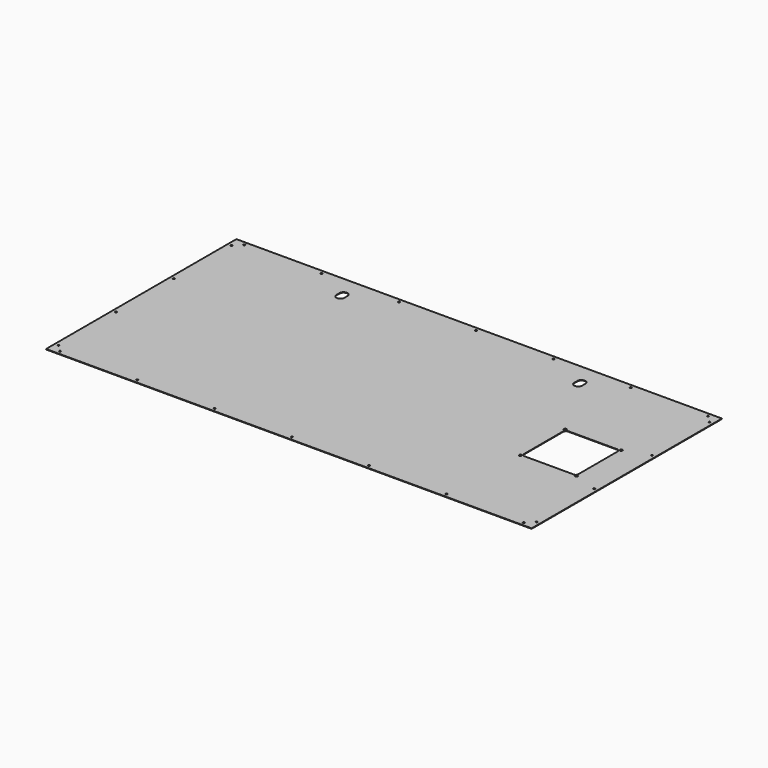
from build123d import *

# Parameters (mm, degrees)
SKETCH_W        = 980
SKETCH_H        = 480
PAD_DEPTH       = 1
SKETCH001_R     = 1.8
POCKET_DEPTH    = 1.001
SKETCH030_R     = 2.6
POCKET018_DEPTH = 1.001
POCKET019_DEPTH = 1.001
POCKET022_DEPTH = 1.001


with BuildPart() as part:
    # Sketch → Pad (new body)
    with BuildSketch(Plane.XY):
        Rectangle(SKETCH_W, SKETCH_H)
    extrude(amount=PAD_DEPTH)

    # Sketch001 (on Face6 of Pad) → Pocket (cut, through all)
    with BuildSketch(Plane.XY.offset(1)):
        with Locations((0, 232.5)):
            Circle(SKETCH001_R)
        with Locations((156, 232.5)):
            Circle(SKETCH001_R)
        with Locations((312, 232.5)):
            Circle(SKETCH001_R)
        with Locations((468, 232.5)):
            Circle(SKETCH001_R)
        with Locations((-156, 232.5)):
            Circle(SKETCH001_R)
        with Locations((-312, 232.5)):
            Circle(SKETCH001_R)
        with Locations((-468, 232.5)):
            Circle(SKETCH001_R)
        with Locations((482.5, 73)):
            Circle(SKETCH001_R)
        with Locations((482.5, 218)):
            Circle(SKETCH001_R)
        with Locations((-482.5, 218)):
            Circle(SKETCH001_R)
        with Locations((-482.5, 73)):
            Circle(SKETCH001_R)
        with Locations((-468, -232.5)):
            Circle(SKETCH001_R)
        with Locations((-312, -232.5)):
            Circle(SKETCH001_R)
        with Locations((-156, -232.5)):
            Circle(SKETCH001_R)
        with Locations((0, -232.5)):
            Circle(SKETCH001_R)
        with Locations((156, -232.5)):
            Circle(SKETCH001_R)
        with Locations((312, -232.5)):
            Circle(SKETCH001_R)
        with Locations((468, -232.5)):
            Circle(SKETCH001_R)
        with Locations((482.5, -218)):
            Circle(SKETCH001_R)
        with Locations((-482.5, -218)):
            Circle(SKETCH001_R)
        with Locations((482.5, -73)):
            Circle(SKETCH001_R)
        with Locations((-482.5, -73)):
            Circle(SKETCH001_R)
    extrude(amount=-POCKET_DEPTH, mode=Mode.SUBTRACT)

    # Sketch030 → Pocket018 (cut, through all)
    with BuildSketch(Plane.XY.offset(1)):
        with Locations((320.499908, -56.500045)):
            Circle(SKETCH030_R)
        with Locations((433.499908, -56.500045)):
            Circle(SKETCH030_R)
        with Locations((320.499908, 56.499955)):
            Circle(SKETCH030_R)
        with Locations((433.499908, 56.499955)):
            Circle(SKETCH030_R)
    extrude(amount=-POCKET018_DEPTH, mode=Mode.SUBTRACT)

    # Sketch029 (on Face5 of Pocket) → Pocket019 (cut, through all)
    with BuildSketch(Plane.XY.offset(1)):
        with BuildLine():
            ThreePointArc((326.999908, 54.999955), (323.464375, 53.535489), (321.999908, 49.999955))
            Line((321.999908, -50.000045), (321.999908, 49.999955))
            ThreePointArc((321.999908, -50.000045), (323.464375, -53.535579), (326.999908, -55.000045))
            Line((326.999908, -55.000045), (426.999908, -55.000045))
            ThreePointArc((426.999908, -55.000045), (430.535442, -53.535579), (431.999908, -50.000045))
            Line((431.999908, -50.000045), (431.999908, 49.999955))
            ThreePointArc((431.999908, 49.999955), (430.535442, 53.535489), (426.999908, 54.999955))
            Line((326.999908, 54.999955), (426.999908, 54.999955))
        make_face()
    extrude(amount=-POCKET019_DEPTH, mode=Mode.SUBTRACT)

    # Sketch037 (on Face5 of Pocket019) → Pocket022 (cut, through all)
    with BuildSketch(Plane.XY.offset(1)):
        with BuildLine():
            ThreePointArc((232, 190), (240, 182), (248, 190))
            Line((248, 190), (248, 198))
            ThreePointArc((248, 198), (240, 206), (232, 198))
            Line((232, 190), (232, 198))
        make_face()
        with BuildLine():
            Line((-232, 190), (-232, 198))
            ThreePointArc((-232, 198), (-240, 206), (-248, 198))
            Line((-248, 190), (-248, 198))
            ThreePointArc((-248, 190), (-240, 182), (-232, 190))
        make_face()
    extrude(amount=-POCKET022_DEPTH, mode=Mode.SUBTRACT)


solid = part.part
